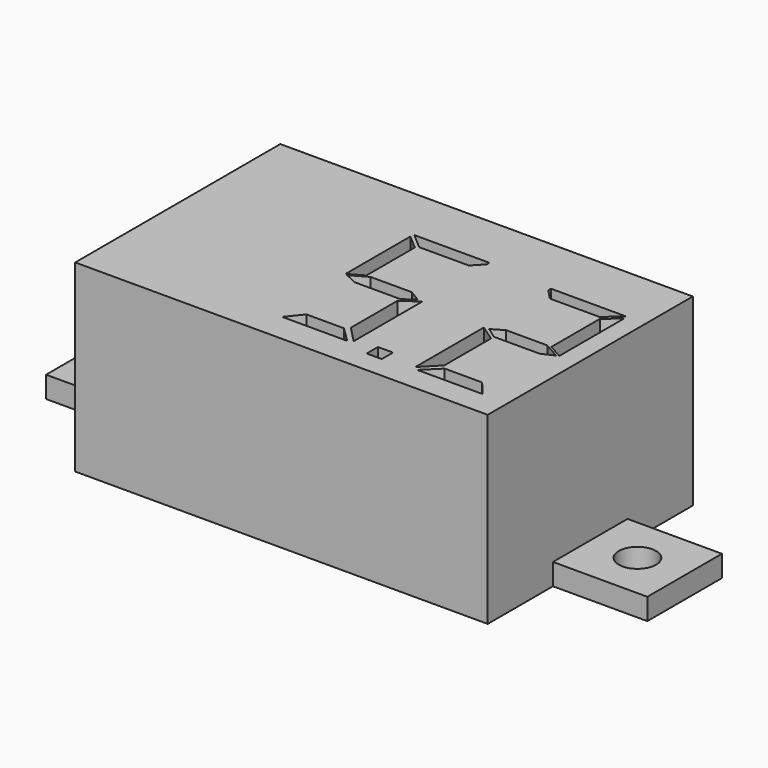
from build123d import *

# Parameters (mm, degrees)
F0_W     = 22.479
F0_H     = 13.97
F1_DEPTH = 10.033
F2_W     = 5.1435
F2_H     = 5.08
F2_R     = 1.016
F3_DEPTH = 1.1684
F4_W     = 0.82242
F4_H     = 0.767591
F5_DEPTH = 1.27


with BuildPart() as f1:
    # F0 (on Top) → F1 (new body)
    with BuildSketch(Plane.XY):
        with Locations((11.2395, 6.985)):
            Rectangle(F0_W, F0_H)
    extrude(amount=F1_DEPTH)

    # F2 (on face) → F3 (join)
    with BuildSketch(Plane(origin=(0, 0, 0), x_dir=(1, 0, 0), z_dir=(0, 0, -1))):
        with Locations((-2.57175, -6.985)):
            Rectangle(F2_W, F2_H)
        with Locations((-2.57175, -6.985)):
            Circle(F2_R, mode=Mode.SUBTRACT)
        with Locations((25.05075, -6.985)):
            Rectangle(F2_W, F2_H)
        with Locations((25.05075, -6.985)):
            Circle(F2_R, mode=Mode.SUBTRACT)
    extrude(amount=-F3_DEPTH)

    # F4 (on face) → F5 (cut)
    with BuildSketch(Plane.XY.offset(10.033)):
        Polygon((13.786751, 10.79755), (13.786751, 10.982947), (9.691444, 10.982947), (10.554357, 10.241496), (13.258331, 10.241496), align=None)
        Polygon((10.425497, 10.104383), (9.64253, 10.777142), (9.64253, 6.367391), (10.425497, 6.807481), align=None)
        Polygon((9.767849, 6.309171), (10.425497, 6.003647), (12.916651, 6.003647), (13.521753, 6.435402), (12.894051, 6.807481), (10.648357, 6.807481), align=None)
        Polygon((13.786751, 1.735938), (13.786751, 6.003647), (13.786751, 6.405564), (12.916651, 5.813658), (12.916651, 2.628638), align=None)
        Polygon((10.011367, 1.583957), (13.558927, 1.583957), (12.718385, 2.407485), (10.674233, 2.407485), align=None)
        with Locations((15.336972, 1.578371)):
            Rectangle(F4_W, F4_H)
        Polygon((20.461116, 6.582137), (18.215422, 6.582137), (17.587719, 6.210058), (18.192822, 5.778302), (20.683976, 5.778302), (21.341624, 6.083827), align=None)
        Polygon((17.322722, 10.572206), (17.851142, 10.016152), (20.555116, 10.016152), (21.418029, 10.757603), (17.322722, 10.757603), align=None)
        Polygon((20.683976, 9.879039), (20.683976, 6.582137), (21.466942, 6.142047), (21.466942, 10.551798), align=None)
        Polygon((17.322722, 1.510594), (18.192822, 2.403293), (18.192822, 5.588314), (17.322722, 6.18022), align=None)
        Polygon((21.098106, 1.358613), (20.43524, 2.182141), (18.391088, 2.182141), (17.550545, 1.358613), align=None)
    extrude(amount=-F5_DEPTH, mode=Mode.SUBTRACT)


solid = f1.part
